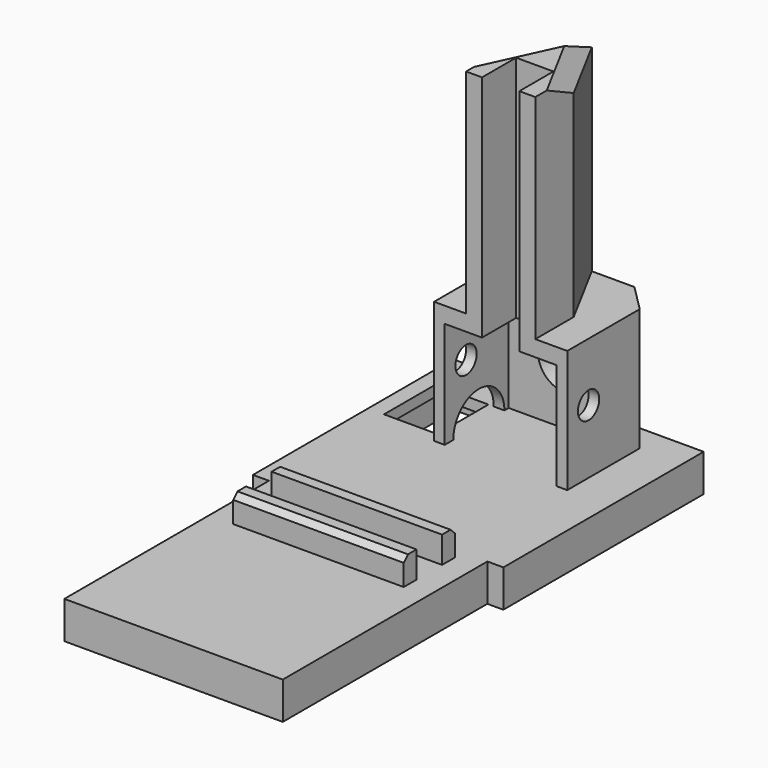
from build123d import *

# Parameters (mm, degrees)
PAD_DEPTH       = 7
POCKET_DEPTH    = 5
SKETCH002_W     = 32
SKETCH002_H     = 3
PAD001_DEPTH    = 5
SKETCH003_W     = 10
SKETCH003_H     = 12
POCKET001_DEPTH = 2
PAD002_DEPTH    = 20
POCKET002_DEPTH = 5
SKETCH006_R     = 5
POCKET003_DEPTH = 7
PAD003_DEPTH    = 3
PAD004_DEPTH    = 40
CHAMFER_SIZE    = 5
CHAMFER001_SIZE = 5
CHAMFER002_SIZE = 3
CHAMFER003_SIZE = 1
CHAMFER004_SIZE = 1
SKETCH009_R     = 2.5
POCKET004_DEPTH = 39.001


with BuildPart() as part:
    # Sketch → Pad (new body)
    with BuildSketch(Plane.XY):
        Polygon((-23.5, 95), (23.5, 95), (23.5, 48), (20.5, 48), (20.5, 0), (-20.5, 0), (-20.5, 48), (-23.5, 48), align=None)
    extrude(amount=PAD_DEPTH)

    # Sketch001 (on Face9 of Pad) → Pocket (cut)
    with BuildSketch(Plane(origin=(0, 0, 0), x_dir=(1, 0, 0), z_dir=(0, 0, -1))):
        Polygon((-18.5, -2), (18.5, -2), (18.5, -50), (21.5, -50), (21.5, -93), (-21.5, -93), (-21.5, -50), (-18.5, -50), align=None)
    extrude(amount=-POCKET_DEPTH, mode=Mode.SUBTRACT)

    # Sketch002 (on Face5 of Pocket) → Pad001 (join)
    with BuildSketch(Plane.XY.offset(7)):
        with Locations((0, 44.5)):
            Rectangle(SKETCH002_W, SKETCH002_H)
        with Locations((0, 35.5)):
            Rectangle(SKETCH002_W, SKETCH002_H)
    extrude(amount=PAD001_DEPTH)

    # Sketch003 (on Face5 of Pad001) → Pocket001 (cut)
    with BuildSketch(Plane.XY.offset(7)):
        with Locations((-15.5, 81)):
            Rectangle(SKETCH003_W, SKETCH003_H)
    extrude(amount=-POCKET001_DEPTH, mode=Mode.SUBTRACT)

    # Sketch004 (on Face5 of Pocket001) → Pad002 (join)
    with BuildSketch(Plane.XY.offset(7)):
        Polygon((-9.5, 95), (15.5, 95), (15.5, 73), (13.5, 73), (13.5, 88), (-7.5, 88), (-7.5, 73), (-9.5, 73), align=None)
    extrude(amount=PAD002_DEPTH)

    # Sketch005 (on Face24 of Pad002) → Pocket002 (cut)
    with BuildSketch(Plane.YZ.offset(-7.5)):
        with BuildLine():
            ThreePointArc((87, 7), (81, 13), (75, 7))
            Line((75, 7), (87, 7))
        make_face()
    extrude(amount=-POCKET002_DEPTH, mode=Mode.SUBTRACT)

    # Sketch006 (on Face6 of Pad002) → Pocket003 (cut)
    with BuildSketch(Plane(origin=(0, 95, 0), x_dir=(-1, 0, 0), z_dir=(0, 1, 0))):
        with Locations((-3, 18)):
            Circle(SKETCH006_R)
    extrude(amount=-POCKET003_DEPTH, mode=Mode.SUBTRACT)

    # Sketch007 (on Face40 of Pocket003) → Pad003 (join)
    with BuildSketch(Plane.XY.offset(27)):
        Polygon((-9.5, 73), (-0.5, 73), (-0.5, 81), (6.5, 81), (6.5, 73), (15.5, 73), (15.5, 95), (-9.5, 95), align=None)
    extrude(amount=PAD003_DEPTH)

    # Sketch008 (on Face52 of Pad003) → Pad004 (join)
    with BuildSketch(Plane.XY.offset(30)):
        Polygon((-0.5, 73), (-0.5, 81), (6.5, 81), (6.5, 73), (9.5, 73), (9.5, 82), (2.5, 95), (-3.5, 82), (-3.5, 73), align=None)
    extrude(amount=PAD004_DEPTH)

    # Chamfer
    chamfer_edges = [part.edges().sort_by_distance(p)[0] for p in [
        (15.5, 95, 17),
    ]]
    chamfer(chamfer_edges, length=CHAMFER_SIZE)

    # Chamfer001
    chamfer001_edges = [part.edges().sort_by_distance(p)[0] for p in [
        (-9.5, 95, 17),
    ]]
    chamfer(chamfer001_edges, length=CHAMFER001_SIZE)

    # Chamfer002
    chamfer002_edges = [part.edges().sort_by_distance(p)[0] for p in [
        (6, 88.5, 70),
        (-0.5, 88.5, 70),
    ]]
    chamfer(chamfer002_edges, length=CHAMFER002_SIZE)

    # Chamfer003
    chamfer003_edges = [part.edges().sort_by_distance(p)[0] for p in [
        (0, 46, 12),
    ]]
    chamfer(chamfer003_edges, length=CHAMFER003_SIZE)

    # Chamfer004
    chamfer004_edges = [part.edges().sort_by_distance(p)[0] for p in [
        (0, 34, 12),
    ]]
    chamfer(chamfer004_edges, length=CHAMFER004_SIZE)

    # Sketch009 (on Face19 of Chamfer004) → Pocket004 (cut, through all)
    with BuildSketch(Plane.YZ.offset(15.5)):
        with Locations((78, 19)):
            Circle(SKETCH009_R)
    extrude(amount=-POCKET004_DEPTH, mode=Mode.SUBTRACT)


solid = part.part
